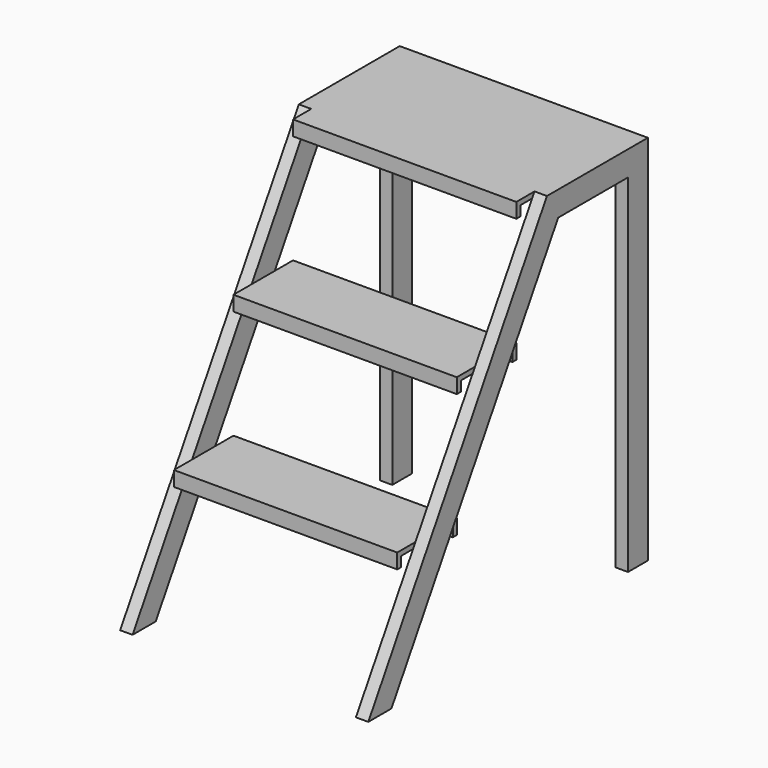
from build123d import *

# Parameters (mm, degrees)
F1_DEPTH = 225
F3_DEPTH = 25


with BuildPart() as f1:
    # F0 (on Right) → F1 (new body)
    with BuildSketch(Plane.YZ):
        Polygon((150, 220), (150, 250), (0, 250), (0, 220), (10, 220), (10, 240), (140, 240), (140, 220), align=None)
    extrude(amount=F1_DEPTH)



with BuildPart() as f1b:
    # F0 (on Right) → F1, piece 2 (new body)
    with BuildSketch(Plane.YZ):
        Polygon((160, 470), (160, 490), (290, 490), (290, 470), (300, 470), (300, 500), (150, 500), (150, 470), align=None)
    extrude(amount=F1_DEPTH)


with BuildPart() as f1c:
    # F0 (on Right) → F1, piece 3 (new body)
    with BuildSketch(Plane.YZ):
        Polygon((300, 750), (300, 720), (310, 720), (310, 740), (590, 740), (590, 720), (600, 720), (600, 750), align=None)
    extrude(amount=F1_DEPTH)


with BuildPart() as f1_1:
    add(f1.part)

    add(f1b.part)  # F3 merges F1b

    add(f1c.part)  # F3 merges F1c
    # F2 (on face) → F3 (join)
    with BuildSketch(Plane.YZ.offset(225)):
        Polygon((600, 0), (600, 750), (345.8452405258, 750), (-104.1547594742, 0), (-45.8452405258, 0), (374.1547594742, 700), (550, 700), (550, 0), align=None)
    extrude(amount=F3_DEPTH)

    # F4: F1 across plane


with BuildPart() as f1_2:
    add(f1_1.part)
    add(f1_1.part.mirror(Plane.YZ))


solid = f1_2.part
